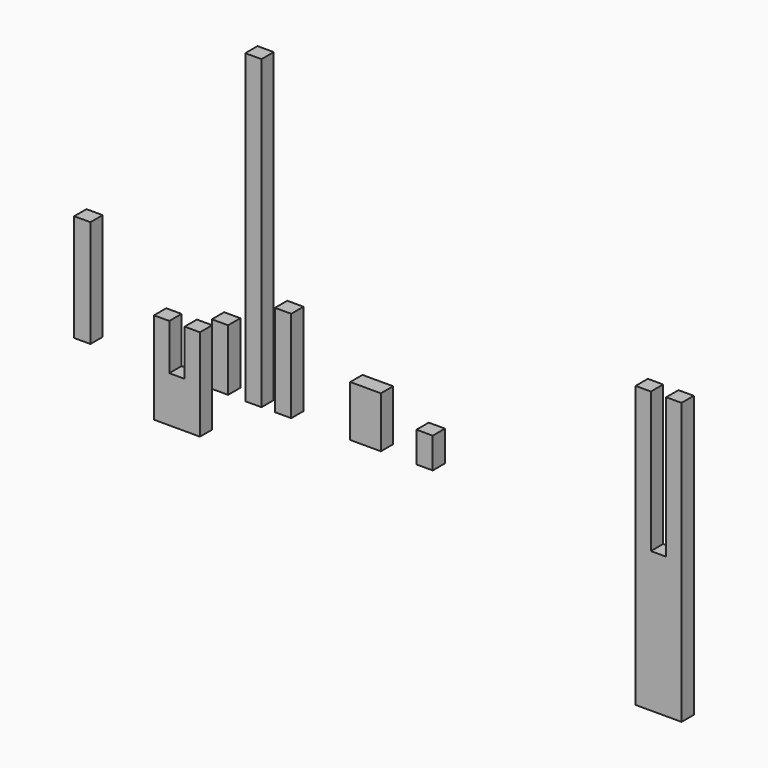
from build123d import *

# Parameters (mm, degrees)
F0_W      = 3.175
F0_H      = 60
F1_DEPTH  = 3
F2_W      = 3.175
F2_H      = 18
F3_DEPTH  = 3
F4_W      = 6
F4_H      = 10
F5_DEPTH  = 3
F6_W      = 3.175
F6_H      = 12
F7_DEPTH  = 3
F8_W      = 3.175
F8_H      = 6
F9_DEPTH  = 3
F11_DEPTH = 3
F12_W     = 3.175
F12_H     = 21
F13_DEPTH = 3
F15_DEPTH = 3


with BuildPart() as f1:
    # F0 (on Front) → F1 (new body)
    with BuildSketch(Plane.XZ):
        with Locations((1.5875, 30)):
            Rectangle(F0_W, F0_H)
    extrude(amount=F1_DEPTH)


with BuildPart() as f3:
    # F2 (on Front) → F3 (new body)
    with BuildSketch(Plane.XZ):
        with Locations((7.414239, 9)):
            Rectangle(F2_W, F2_H)
    extrude(amount=F3_DEPTH)


with BuildPart() as f5:
    # F4 (on Front) → F5 (new body)
    with BuildSketch(Plane.XZ):
        with Locations((23.557066, 5)):
            Rectangle(F4_W, F4_H)
    extrude(amount=F5_DEPTH)


with BuildPart() as f7:
    # F6 (on Front) → F7 (new body)
    with BuildSketch(Plane.XZ):
        with Locations((-4.948214, 6)):
            Rectangle(F6_W, F6_H)
    extrude(amount=F7_DEPTH)


with BuildPart() as f9:
    # F8 (on Front) → F9 (new body)
    with BuildSketch(Plane.XZ):
        with Locations((35.114715, 3)):
            Rectangle(F8_W, F8_H)
    extrude(amount=F9_DEPTH)


with BuildPart() as f11:
    # F10 (on Front) → F11 (new body)
    with BuildSketch(Plane.XZ):
        Polygon((-8.871202, -9), (-8.871202, 9), (-11.871202, 9), (-11.871202, 0), (-14.871202, 0), (-14.871202, 9), (-17.871202, 9), (-17.871202, -9), align=None)
    extrude(amount=F11_DEPTH)


with BuildPart() as f13:
    # F12 (on Front) → F13 (new body)
    with BuildSketch(Plane.XZ):
        with Locations((-31.907464, 10.5)):
            Rectangle(F12_W, F12_H)
    extrude(amount=F13_DEPTH)


with BuildPart() as f15:
    # F14 (on Front) → F15 (new body)
    with BuildSketch(Plane.XZ):
        Polygon((85.42636, -27.5), (85.42636, 27.5), (82.42636, 27.5), (82.42636, 0), (79.42636, 0), (79.42636, 27.5), (76.42636, 27.5), (76.42636, -27.5), align=None)
    extrude(amount=F15_DEPTH)


solid = Compound([f1.part, f3.part, f5.part, f7.part, f9.part, f11.part, f13.part, f15.part])
